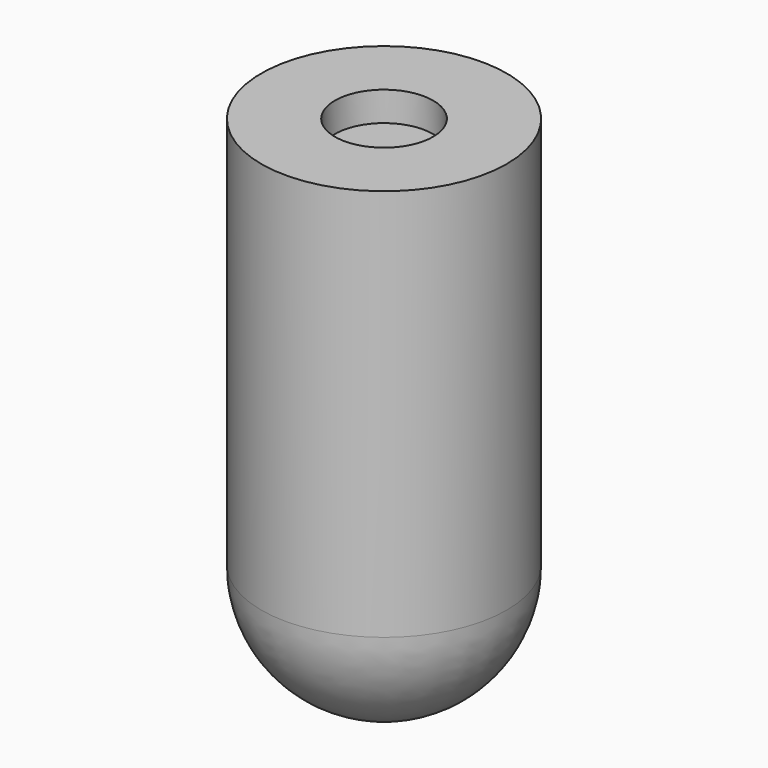
from build123d import *

# Parameters (mm, degrees)
F0_R     = 25
F1_DEPTH = 80
F5_R     = 10
F6_DEPTH = 6


with BuildPart() as f1:
    # F0 (on Top) → F1 (new body)
    with BuildSketch(Plane.XY):
        Circle(F0_R)
    extrude(amount=F1_DEPTH)

    # F2 (on Right) → F3 (revolve)
    with BuildSketch(Plane.YZ):
        with BuildLine():
            Line((0, 0), (-25, 0))
            ThreePointArc((-25, 0), (-17.67767, -17.67767), (0, -25))
            Line((0, -25), (0, 0))
        make_face()
    revolve(axis=Axis((0, 0, -12.5), (0, 0, 1)))

    # F5 (on offset) → F6 (cut)
    with BuildSketch(Plane.XY.offset(80)):
        Circle(F5_R)
    extrude(amount=-F6_DEPTH, mode=Mode.SUBTRACT)


solid = f1.part
